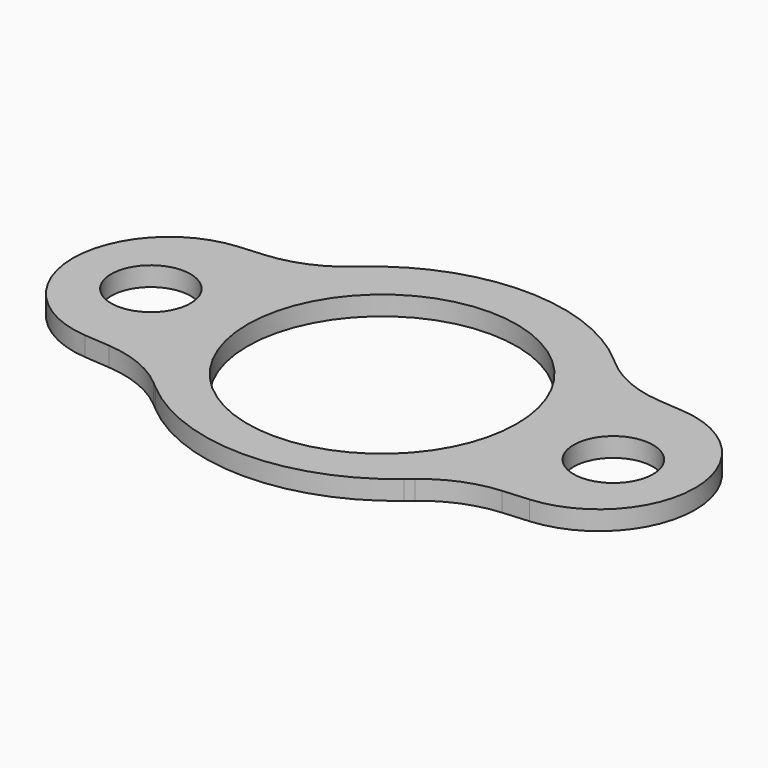
from build123d import *

# Parameters (mm, degrees)
F0_R     = 13.102935
F1_DEPTH = 6.35


with BuildPart() as f1:
    # F0 (on Top) → F1 (new body)
    with BuildSketch(Plane.XY):
        with BuildLine():
            Line((-65.111071, 33.079109), (-73.495406, 32.406889))
            ThreePointArc((-73.495406, 32.406889), (-102.707914, 0.699242), (-73.377358, -30.899239))
            Line((-73.377358, -30.899239), (-64.859611, -31.550194))
            ThreePointArc((-64.859611, -31.550194), (-53.305524, -34.288957), (-43.155709, -40.451666))
            Line((-43.155709, -40.451666), (-41.011948, -42.265209))
            ThreePointArc((-41.011948, -42.265209), (0, -57.285625), (41.011948, -42.265209))
            Line((41.011948, -42.265209), (43.152891, -40.45405))
            ThreePointArc((43.152891, -40.45405), (53.305798, -34.290073), (64.863456, -31.55207))
            Line((64.863456, -31.55207), (73.420082, -30.899652))
            ThreePointArc((73.420082, -30.899652), (102.756191, 0.699387), (73.537863, 32.407366))
            Line((73.537863, 32.407366), (65.115129, 33.081106))
            ThreePointArc((65.115129, 33.081106), (53.354307, 35.951298), (43.087573, 42.366053))
            Line((43.087573, 42.366053), (41.775827, 43.511932))
            ThreePointArc((41.775827, 43.511932), (0, 59.189026), (-41.775827, 43.511932))
            Line((-41.775827, 43.511932), (-43.090499, 42.363497))
            ThreePointArc((-43.090499, 42.363497), (-53.354005, 35.950102), (-65.111071, 33.079109))
        make_face()
        with Locations((-76.359481, 0)):
            Circle(F0_R, mode=Mode.SUBTRACT)
        with BuildLine():
            ThreePointArc((-44.465763, 0), (0, 44.465763), (44.465763, 0))
            ThreePointArc((44.465763, 0), (0, -44.465763), (-44.465763, 0))
        make_face(mode=Mode.SUBTRACT)
        with BuildLine():
            ThreePointArc((89.462416, 0), (76.359481, -13.102935), (63.256546, 0))
            ThreePointArc((63.256546, 0), (76.359481, 13.102935), (89.462416, 0))
        make_face(mode=Mode.SUBTRACT)
    extrude(amount=F1_DEPTH)


solid = f1.part
